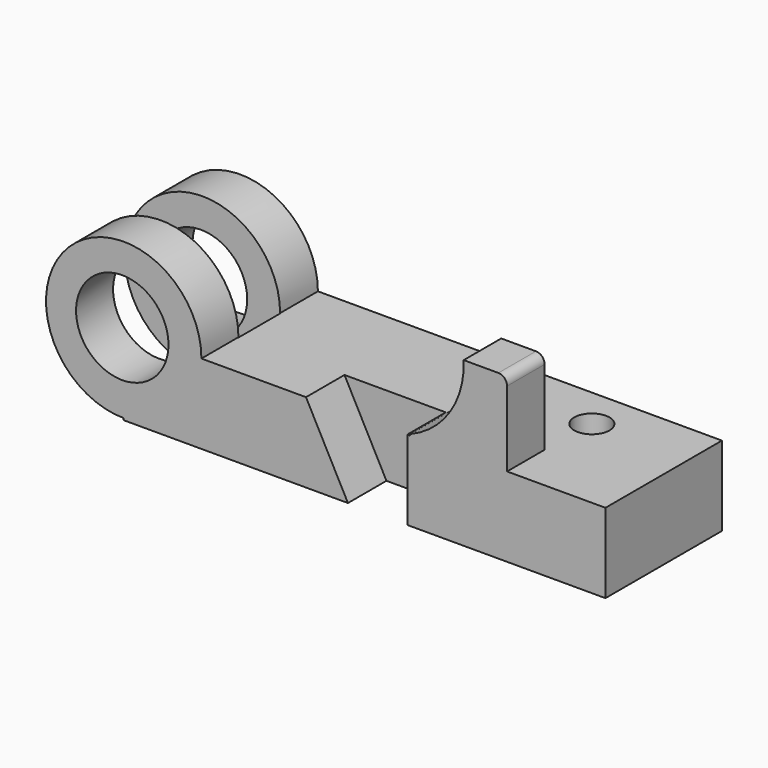
from build123d import *

# Parameters (mm, degrees)
F1_DEPTH  = 30.734
F3_W      = 32.981223
F3_H      = 10.993741
F4_DEPTH  = 53.848
F5_R      = 9.757889
F6_DEPTH  = 53.086
F8_DEPTH  = 9.906
F9_R      = 1.839631
F11_DEPTH = 10.16
F12_R     = 3.72766
F13_DEPTH = 25.4


with BuildPart() as f1:
    # F0 (on Front) → F1 (new body)
    with BuildSketch(Plane.XZ):
        with BuildLine():
            ThreePointArc((-30.84355, 0.39327), (-19.245074, 5.197517), (-14.440828, 16.795993))
            Line((-14.440828, 16.795993), (-30.84355, 16.795993))
            Line((-30.84355, 16.795993), (-30.84355, 0.39327))
        make_face()
        with BuildLine():
            Line((-30.84355, 16.795993), (-14.440828, 16.795993))
            ThreePointArc((-14.440828, 16.795993), (-42.442027, 28.394469), (-30.84355, 0.39327))
            Line((-30.84355, 0.39327), (-30.84355, 16.795993))
        make_face()
        with BuildLine():
            Line((70.848547, 16.795993), (-14.440828, 16.795993))
            ThreePointArc((-14.440828, 16.795993), (-19.245074, 5.197517), (-30.84355, 0.39327))
            Line((-30.84355, 0.39327), (-30.84355, 0))
            Line((-30.84355, 0), (70.848547, 0))
            Line((70.848547, 0), (70.848547, 16.795993))
        make_face()
    extrude(amount=-F1_DEPTH)

    # F3 (on offset) → F4 (cut)
    with BuildSketch(Plane.XY.offset(34.29)):
        with Locations((-30.843549, 15.269084)):
            Rectangle(F3_W, F3_H)
    extrude(amount=-F4_DEPTH, mode=Mode.SUBTRACT)

    # F5 (on Front) → F6 (cut)
    with BuildSketch(Plane.XZ):
        with Locations((-31.148931, 17.101374)):
            Circle(F5_R)
    extrude(amount=-F6_DEPTH, mode=Mode.SUBTRACT)

    # F7 (on Front) → F8 (join)
    with BuildSketch(Plane.XZ):
        with BuildLine():
            Line((29.622022, 17.101374), (29.622022, 0))
            Line((29.622022, 0), (50.082598, 0))
            Line((50.082598, 0), (50.082598, 34.508131))
            Line((50.082598, 34.508131), (40.921144, 34.508131))
            ThreePointArc((40.921144, 34.508131), (38.063066, 23.992738), (29.622022, 17.101374))
        make_face()
    extrude(amount=-F8_DEPTH)

    # F9
    f9_edges = [f1.edges().sort_by_distance(p)[0] for p in [
        (50.082598, 4.953, 34.508131),
    ]]
    fillet(f9_edges, radius=F9_R)

    # F10 (on Front) → F11 (cut)
    with BuildSketch(Plane.XZ):
        Polygon((29.011261, 0), (29.011261, 17.101374), (7.634541, 16.795993), (16.49061, 0), align=None)
    extrude(amount=-F11_DEPTH, mode=Mode.SUBTRACT)

    # F12 (on face) → F13 (cut)
    with BuildSketch(Plane.XY.offset(16.795993)):
        with Locations((50.387979, 21.987481)):
            Circle(F12_R)
    extrude(amount=-F13_DEPTH, mode=Mode.SUBTRACT)


solid = f1.part
